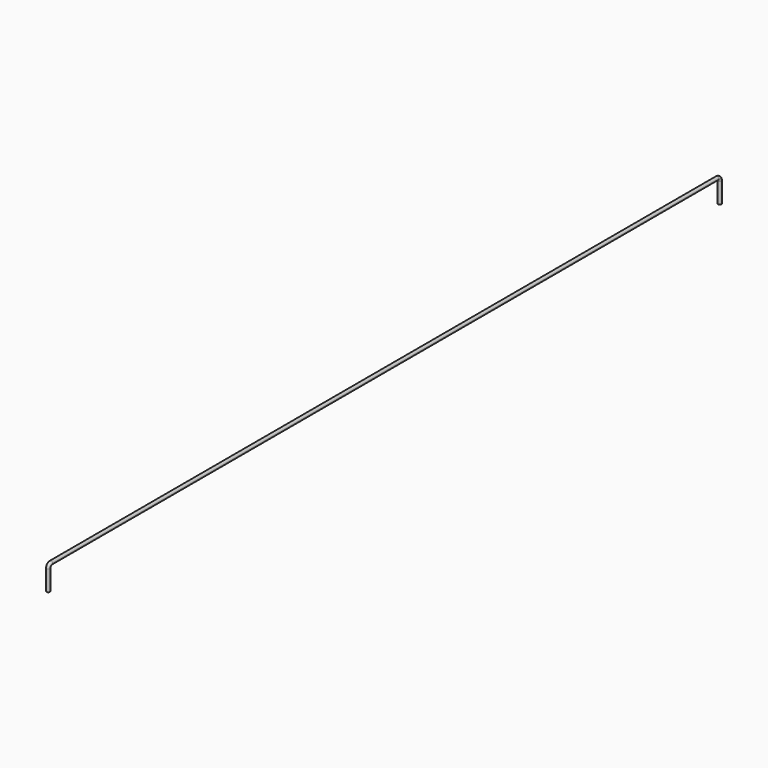
from build123d import *

# Parameters (mm, degrees)
F1_R = 2.5


with BuildPart() as f2:
    # F2: sweep along a path in F0
    with BuildLine(Plane.YZ) as f2_path:
        Line((0, 0), (0, 30))
        ThreePointArc((0, 30), (1.464466, 33.535534), (5, 35))
        Line((5, 35), (1225, 35))
        ThreePointArc((1225, 35), (1228.535534, 33.535534), (1230, 30))
        Line((1230, 30), (1230, 0))
    # F1 (on Top) → F2 (sweep)
    with BuildSketch(Plane.XY):
        Circle(F1_R)
    sweep(path=f2_path.line)


solid = f2.part
